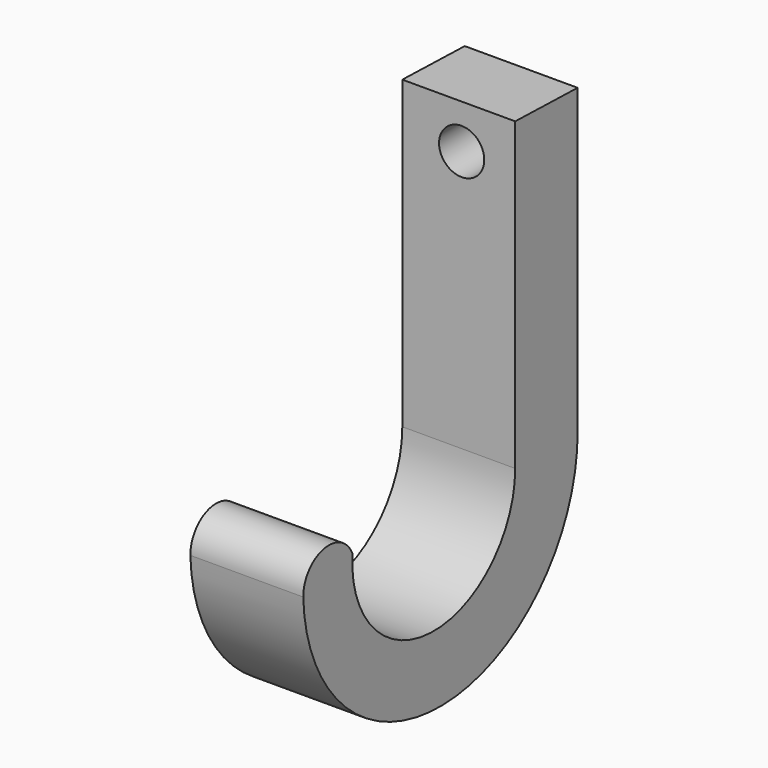
from build123d import *

# Parameters (mm, degrees)
F1_DEPTH = 25.4
F3_D     = 10.16


with BuildPart() as f1:
    # F0 (on Right) → F1 (new body)
    with BuildSketch(Plane.YZ):
        with BuildLine():
            Line((11.871653, -20.404406), (11.871653, 47.857605))
            Line((11.871653, 47.857605), (-5.6885, 48.352256))
            Line((-5.6885, 48.352256), (-5.6885, -20.404406))
            ThreePointArc((-5.6885, -20.404406), (-29.465182, -43.298444), (-51.443834, -18.673122))
            ThreePointArc((-51.443834, -18.673122), (-59.588709, -14.464939), (-65.294094, -21.641036))
            ThreePointArc((-65.294094, -21.641036), (-26.102735, -58.992234), (11.871653, -20.404406))
        make_face()
    extrude(amount=F1_DEPTH)

    # F3 (through all)
    with Locations(Plane.XZ.offset(5.6885)):
        with Locations((13.35561, 38.459212)):
            Hole(F3_D / 2)


solid = f1.part
